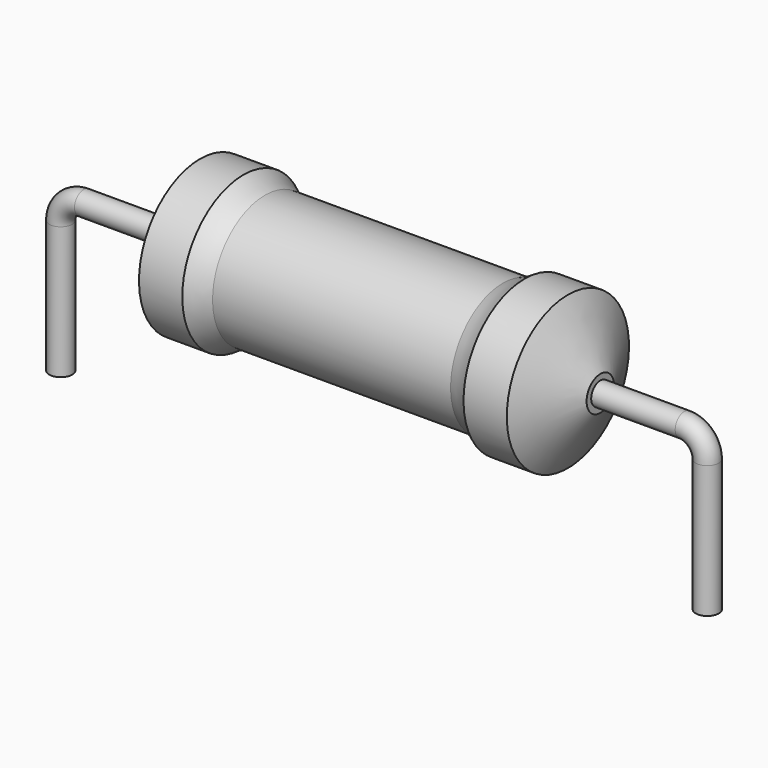
from build123d import *

# Parameters (mm, degrees)
SKETCH_R = 0.45


with BuildPart() as revolution:
    # Sketch002 → Revolution (revolve)
    with BuildSketch(Plane.XZ):
        with BuildLine():
            Line((5.475, 6.1), (7.175, 6.1))
            ThreePointArc((7.175, 6.1), (7.582413, 5.852326), (8.025, 5.675))
            Line((8.025, 5.675), (17.375, 5.675))
            ThreePointArc((17.375, 5.675), (17.817587, 5.852326), (18.225, 6.1))
            Line((18.225, 6.1), (19.925, 6.1))
            ThreePointArc((21.2, 3.775), (20.566227, 4.939544), (19.925, 6.1))
            Line((21.2, 3.1), (21.2, 3.775))
            Line((4.2, 3.1), (21.2, 3.1))
            Line((4.2, 3.1), (4.2, 3.775))
            ThreePointArc((5.475, 6.1), (4.833773, 4.939544), (4.2, 3.775))
        make_face()
    revolve(axis=Axis((4.2, 0, 3.1), (1, 0, 0)))


with BuildPart() as sweep_body:
    # Sweep: sweep along a path in Sketch001
    with BuildLine(Plane.XZ) as sweep_path:
        Line((0, -3), (0, 2.2))
        ThreePointArc((0, 2.2), (0.263601, 2.836393), (0.899992, 3.1))
        Line((0.899992, 3.1), (24.5, 3.1))
        ThreePointArc((24.5, 3.1), (25.136396, 2.836396), (25.4, 2.2))
        Line((25.4, 2.2), (25.4, -3))
    # Sketch → Sweep (sweep)
    with BuildSketch(Plane.XY.offset(-2)):
        Circle(SKETCH_R)
    sweep(path=sweep_path.line)


solid = Compound([revolution.part, sweep_body.part])
